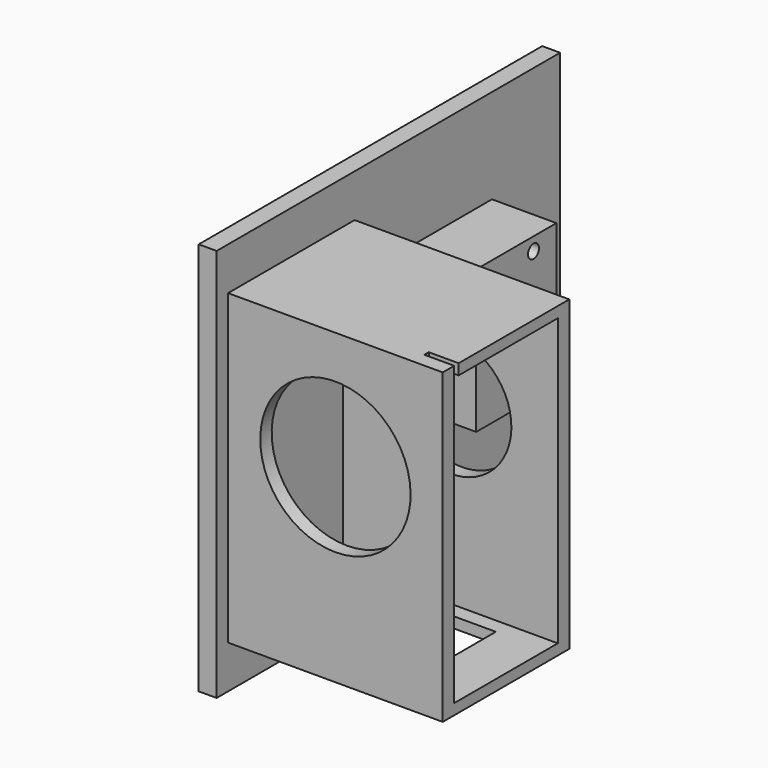
from build123d import *

# Parameters (mm, degrees)
SKETCH_W        = 60
SKETCH_H        = 55
PAD_DEPTH       = 2.5
SKETCH001_W     = 2
SKETCH001_H     = 43
PAD001_DEPTH    = 30
SKETCH003_W     = 2
SKETCH003_H     = 43
PAD002_DEPTH    = 30
SKETCH004_W     = 1.5
SKETCH004_H     = 29.981854
PAD003_DEPTH    = 18.2
SKETCH005_W     = 1.5
SKETCH005_H     = 30
PAD004_DEPTH    = 18.2
SKETCH006_R     = 10.504142
POCKET_DEPTH    = 2
SKETCH007_W     = 0.78
SKETCH007_H     = 4.175734
POCKET001_DEPTH = 2
SKETCH009_R     = 8.511691
POCKET002_DEPTH = 2
SKETCH010_W     = 7.5
SKETCH010_H     = 16
POCKET003_DEPTH = 2
SKETCH011_W     = 14
SKETCH011_H     = 20
PAD005_DEPTH    = 9
SKETCH012_R     = 0.957136
SKETCH012_R_2   = 0.955296
POCKET004_DEPTH = 12


with BuildPart() as part:
    # Sketch → Pad (new body)
    with BuildSketch(Plane.YZ):
        with Locations((-4.822152, 15.702681)):
            Rectangle(SKETCH_W, SKETCH_H)
    extrude(amount=PAD_DEPTH)

    # Sketch001 (on Face6 of Pad) → Pad001 (join)
    with BuildSketch(Plane.YZ.offset(2.5)):
        with Locations((-31.822152, 15.702681)):
            Rectangle(SKETCH001_W, SKETCH001_H)
    extrude(amount=PAD001_DEPTH)

    # Sketch003 (on Face5 of Pad001) → Pad002 (join)
    with BuildSketch(Plane.YZ.offset(2.5)):
        with Locations((-11.722152, 15.702681)):
            Rectangle(SKETCH003_W, SKETCH003_H)
    extrude(amount=PAD002_DEPTH)

    # Sketch004 (on Face9 of Pad002) → Pad003 (join)
    with BuildSketch(Plane.ZX.offset(-30.822152)):
        with Locations((-5.047319, 17.509073)):
            Rectangle(SKETCH004_W, SKETCH004_H)
    extrude(amount=PAD003_DEPTH)

    # Sketch005 (on Face9 of Pad003) → Pad004 (join)
    with BuildSketch(Plane.ZX.offset(-30.822152)):
        with Locations((36.452681, 17.5)):
            Rectangle(SKETCH005_W, SKETCH005_H)
    extrude(amount=PAD004_DEPTH)

    # Sketch006 (on Face17 of Pad004) → Pocket (cut)
    with BuildSketch(Plane(origin=(0, -32.822152, 0), x_dir=(0, 0, -1), z_dir=(0, -1, 0))):
        with Locations((-20.702681, 17.5)):
            Circle(SKETCH006_R)
    extrude(amount=-POCKET_DEPTH, mode=Mode.SUBTRACT)

    # Sketch007 (on Face8 of Pocket) → Pocket001 (cut)
    with BuildSketch(Plane(origin=(0, 0, 37.202681), x_dir=(0, -1, 0), z_dir=(0, 0, 1))):
        with Locations((30.432152, 30.412133)):
            Rectangle(SKETCH007_W, SKETCH007_H)
    extrude(amount=-POCKET001_DEPTH, mode=Mode.SUBTRACT)

    # Sketch009 (on Face11 of Pocket) → Pocket002 (cut)
    with BuildSketch(Plane.ZX.offset(-10.722152)):
        with Locations((20.202681, 17.5)):
            Circle(SKETCH009_R)
    extrude(amount=-POCKET002_DEPTH, mode=Mode.SUBTRACT)

    # Sketch010 (on Face31 of Pocket002) → Pocket003 (cut)
    with BuildSketch(Plane.YX.offset(5.797319)):
        with Locations((-18.572152, 17.518146)):
            Rectangle(SKETCH010_W, SKETCH010_H)
    extrude(amount=-POCKET003_DEPTH, mode=Mode.SUBTRACT)

    # Sketch011 (on Face5 of Pocket003) → Pad005 (join)
    with BuildSketch(Plane.YZ.offset(2.5)):
        with Locations((6.277848, 20.002681)):
            Rectangle(SKETCH011_W, SKETCH011_H)
    extrude(amount=PAD005_DEPTH)

    # Sketch012 (on Face36 of Pad005) → Pocket004 (cut)
    with BuildSketch(Plane.YZ.offset(11.5)):
        with Locations((9.277848, 28.152681)):
            Circle(SKETCH012_R)
        with Locations((9.277848, 11.852681)):
            Circle(SKETCH012_R_2)
    extrude(amount=-POCKET004_DEPTH, mode=Mode.SUBTRACT)


solid = part.part
